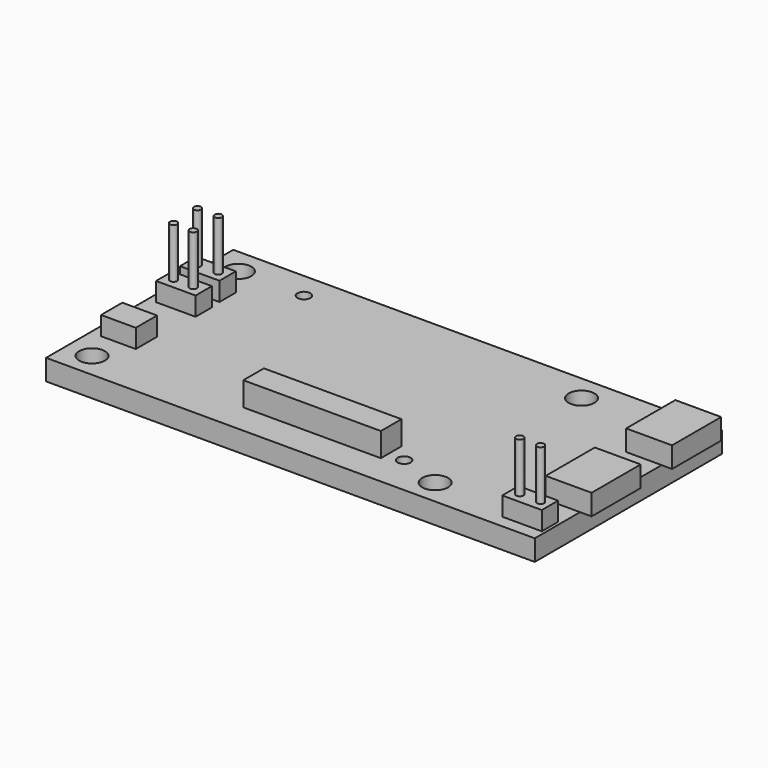
from build123d import *

# Parameters (mm, degrees)
F1_W      = 59.69
F1_H      = 28.575
F1_R      = 1.5748
F1_R_2    = 0.79375
F2_DEPTH  = 2.54
F3_W      = 5.600192
F3_H      = 7.500214
F4_DEPTH  = 2.54
F5_W      = 16.800018
F5_H      = 3.139999
F6_DEPTH  = 2.921
F7_W      = 4.826
F7_H      = 2.4892
F7_W_2    = 4.2418
F7_H_2    = 3.2512
F8_DEPTH  = 2.286
F9_R      = 0.4445
F10_DEPTH = 6.096


with BuildPart() as f2:
    # F1 (on Top) → F2 (new body)
    with BuildSketch(Plane.XY):
        with Locations((-0.701548, 0)):
            Rectangle(F1_W, F1_H)
        with Locations((-27.371548, -11.2395)):
            Circle(F1_R, mode=Mode.SUBTRACT)
        with Locations((9.331452, -9.4615)):
            Circle(F1_R_2, mode=Mode.SUBTRACT)
        with Locations((14.538452, -11.2395)):
            Circle(F1_R, mode=Mode.SUBTRACT)
        with Locations((-27.371548, 11.1125)):
            Circle(F1_R, mode=Mode.SUBTRACT)
        with Locations((-19.370548, 11.1125)):
            Circle(F1_R_2, mode=Mode.SUBTRACT)
        with Locations((14.538452, 11.1125)):
            Circle(F1_R, mode=Mode.SUBTRACT)
    extrude(amount=F2_DEPTH)

    # F3 (on face) → F4 (join)
    with BuildSketch(Plane.XY.offset(2.54)):
        with Locations((27.619452, 8.8265)):
            Rectangle(F3_W, F3_H)
        with Locations((27.746452, -3.6195)):
            Rectangle(F3_W, F3_H)
    extrude(amount=F4_DEPTH)

    # F5 (on face) → F6 (join)
    with BuildSketch(Plane.XY.offset(2.54)):
        with Locations((-1.058545, -8.963304)):
            Rectangle(F5_W, F5_H)
    extrude(amount=F6_DEPTH)

    # F7 (on face) → F8 (join)
    with BuildSketch(Plane.XY.offset(2.54)):
        with Locations((26.349452, -11.4935)):
            Rectangle(F7_W, F7_H)
        with Locations((-27.244548, 6.2865)):
            Rectangle(F7_W, F7_H)
        with Locations((-27.117548, 2.4765)):
            Rectangle(F7_W, F7_H)
        with Locations((-27.117548, -5.9055)):
            Rectangle(F7_W_2, F7_H_2)
    extrude(amount=F8_DEPTH)

    # F9 (on face) → F10 (join)
    with BuildSketch(Plane.XY.offset(4.826)):
        with Locations((-28.514548, 6.2865)):
            Circle(F9_R)
        with Locations((-25.974548, 6.2865)):
            Circle(F9_R)
        with Locations((-28.387548, 2.4765)):
            Circle(F9_R)
        with Locations((-25.974548, 2.4765)):
            Circle(F9_R)
        with Locations((27.619452, -11.4935)):
            Circle(F9_R)
        with Locations((25.079452, -11.4935)):
            Circle(F9_R)
    extrude(amount=F10_DEPTH)


solid = f2.part
